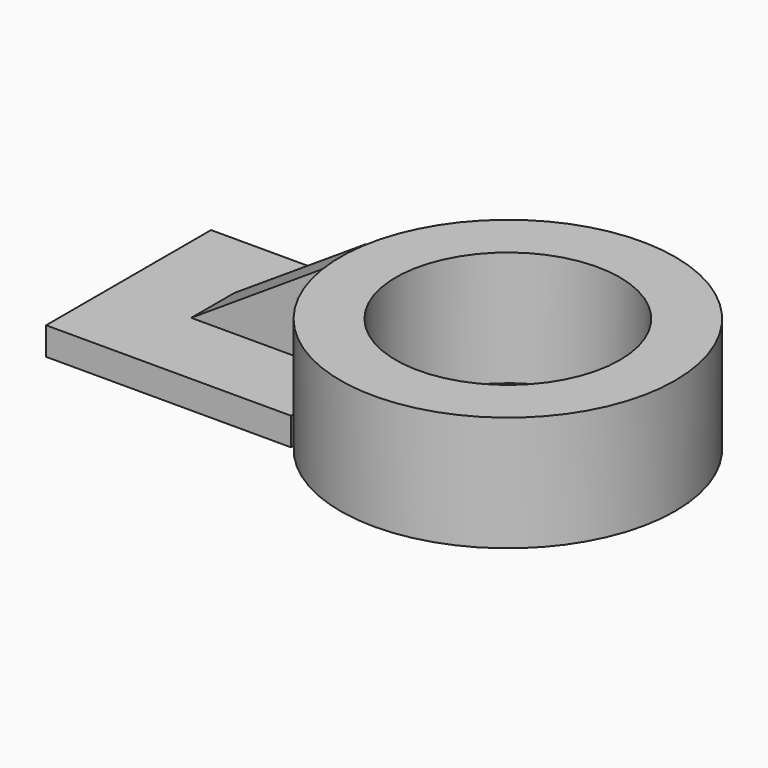
from build123d import *

# Parameters (mm, degrees)
F0_W          = 76.344281
F0_H          = 64.311742
F1_DEPTH      = 8.675357
F2_R          = 52.191029
F2_R_2        = 34.939827
F3_DEPTH      = 35.869643
F5_DEPTH      = 7.10362
F5_DEPTH_BACK = 9.690369


with BuildPart() as f1:
    # F0 (on Top) → F1 (new body)
    with BuildSketch(Plane.XY):
        with Locations((-38.17214, 0)):
            Rectangle(F0_W, F0_H)
    extrude(amount=F1_DEPTH)

    # F2 (on Top) → F3 (join)
    with BuildSketch(Plane.XY):
        with Locations((41.94567, 0)):
            Circle(F2_R)
        with Locations((41.94567, 0)):
            Circle(F2_R_2, mode=Mode.SUBTRACT)
    extrude(amount=F3_DEPTH)

    # F4 (on Front) → F5 (join, two sides)
    with BuildSketch(Plane.XZ) as f5_sk:
        Polygon((-10.01478, 8.739019), (-10.01478, 35.534181), (-51.114608, 8.739019), align=None)
    extrude(amount=F5_DEPTH)
    extrude(f5_sk.sketch, amount=-F5_DEPTH_BACK)


solid = f1.part
